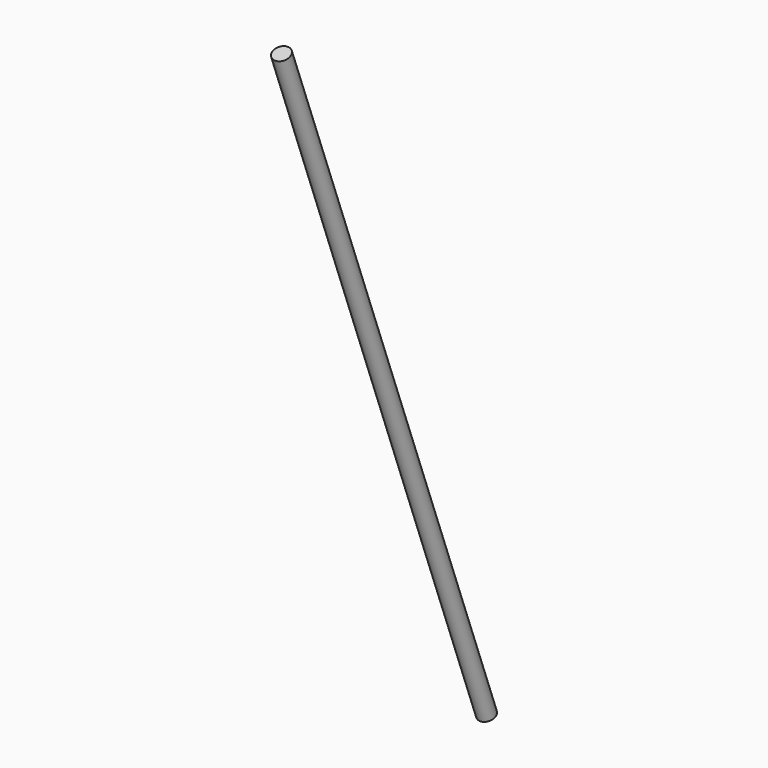
from build123d import *

# Parameters (mm, degrees)
F2_R     = 23
F3_DEPTH = 2000


with BuildPart() as f3:
    # F2 (on face) → F3 (new body)
    with BuildSketch(Plane(origin=(0, 0, 0), x_dir=(1, 0, 0), z_dir=(0, 0.350207, -0.936672))):
        Circle(F2_R)
    extrude(amount=-F3_DEPTH)


solid = f3.part
